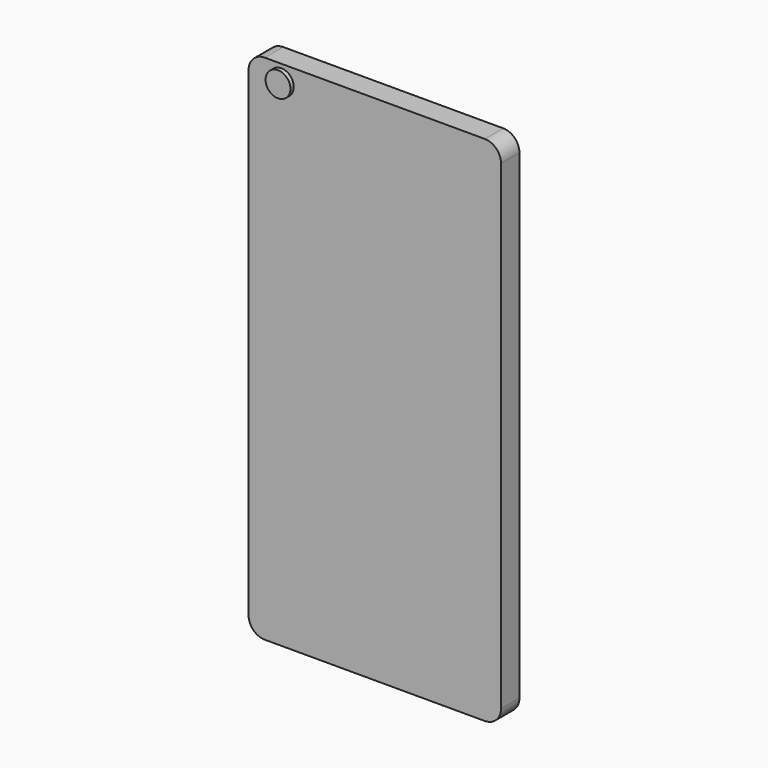
from build123d import *

# Parameters (mm, degrees)
F0_R     = 3.83
F1_DEPTH = 8.4
F0_R_2   = 2.055
F2_DEPTH = 7.1


with BuildPart() as f1:
    # F0 (on Front) → F1 (new body)
    with BuildSketch(Plane.XZ):
        with Locations((-42.109173, 79.105453)):
            Circle(F0_R)
    extrude(amount=F1_DEPTH)

    # F0 (on Front) → F2 (join)
    with BuildSketch(Plane.XZ):
        with BuildLine():
            ThreePointArc((-47.228199, 84.148936), (-50.763733, 82.68447), (-52.228199, 79.148936))
            Line((-52.228199, 79.148936), (-52.228199, 74.180111))
            Line((-52.228199, 74.180111), (-24.604708, 74.180111))
            Line((-24.604708, 74.180111), (-24.604708, 84.148936))
            Line((-24.604708, 84.148936), (-47.228199, 84.148936))
        make_face()
        with Locations((-42.109173, 79.105453)):
            Circle(F0_R, mode=Mode.SUBTRACT)
        with Locations((-30.049173, 79.053629)):
            Circle(F0_R_2, mode=Mode.SUBTRACT)
        with BuildLine():
            Line((-24.604708, 74.180111), (-52.228199, 74.180111))
            Line((-52.228199, 74.180111), (-52.228199, -69.071064))
            ThreePointArc((-52.228199, -69.071064), (-50.763733, -72.606598), (-47.228199, -74.071064))
            Line((-47.228199, -74.071064), (20.711801, -74.071064))
            ThreePointArc((20.711801, -74.071064), (24.247335, -72.606598), (25.711801, -69.071064))
            Line((25.711801, -69.071064), (25.711801, 79.148936))
            ThreePointArc((25.711801, 79.148936), (24.247335, 82.68447), (20.711801, 84.148936))
            Line((20.711801, 84.148936), (-24.604708, 84.148936))
            Line((-24.604708, 84.148936), (-24.604708, 74.180111))
        make_face()
        with Locations((-30.049173, 79.053629)):
            Circle(F0_R_2)
    extrude(amount=F2_DEPTH)


solid = f1.part
